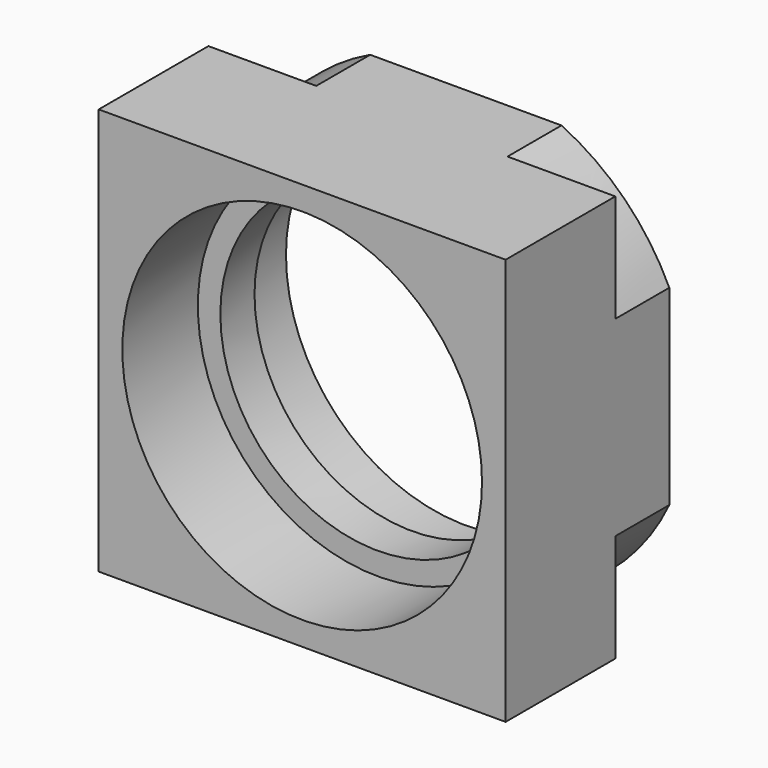
from build123d import *

# Parameters (mm, degrees)
F0_W     = 90.5
F0_H     = 90.5
F1_DEPTH = 45.5
F2_R     = 40
F3_DEPTH = 15
F4_R     = 35
F5_DEPTH = 25
F6_R     = 40
F7_DEPTH = 21
F8_R     = 72.40088581
F8_R_2   = 50
F9_DEPTH = 15


with BuildPart() as f1:
    # F0 (on Front) → F1 (new body)
    with BuildSketch(Plane.XZ):
        Rectangle(F0_W, F0_H)
    extrude(amount=F1_DEPTH)

    # F2 (on face) → F3 (cut)
    with BuildSketch(Plane(origin=(0, 0, 0), x_dir=(-1, 0, 0), z_dir=(0, 1, 0))):
        Circle(F2_R)
    extrude(amount=-F3_DEPTH, mode=Mode.SUBTRACT)

    # F4 (on face) → F5 (cut)
    with BuildSketch(Plane(origin=(0, -15, 0), x_dir=(-1, 0, 0), z_dir=(0, 1, 0))):
        Circle(F4_R)
    extrude(amount=-F5_DEPTH, mode=Mode.SUBTRACT)

    # F6 (on face) → F7 (cut)
    with BuildSketch(Plane.XZ.offset(45.5)):
        Circle(F6_R)
    extrude(amount=-F7_DEPTH, mode=Mode.SUBTRACT)

    # F8 (on face) → F9 (cut)
    with BuildSketch(Plane(origin=(0, 0, 0), x_dir=(-1, 0, 0), z_dir=(0, 1, 0))):
        Circle(F8_R)
        Circle(F8_R_2, mode=Mode.SUBTRACT)
    extrude(amount=-F9_DEPTH, mode=Mode.SUBTRACT)

    # F11 (on offset) → F12 (revolve, cut)
    with BuildSketch(Plane(origin=(0, -8, 0), x_dir=(-1, 0, 0), z_dir=(0, 1, 0))):
        Polygon((-45.1513193548, 45.8626225591), (0, 0), (2.1378338561, 2.1046772683), (-43.0134854987, 47.9672998274), align=None)
    revolve(axis=Axis((22.5756596774, -8, 22.9313112795), (0.7015590894, 0, 0.7126112854)), mode=Mode.SUBTRACT)


solid = f1.part
